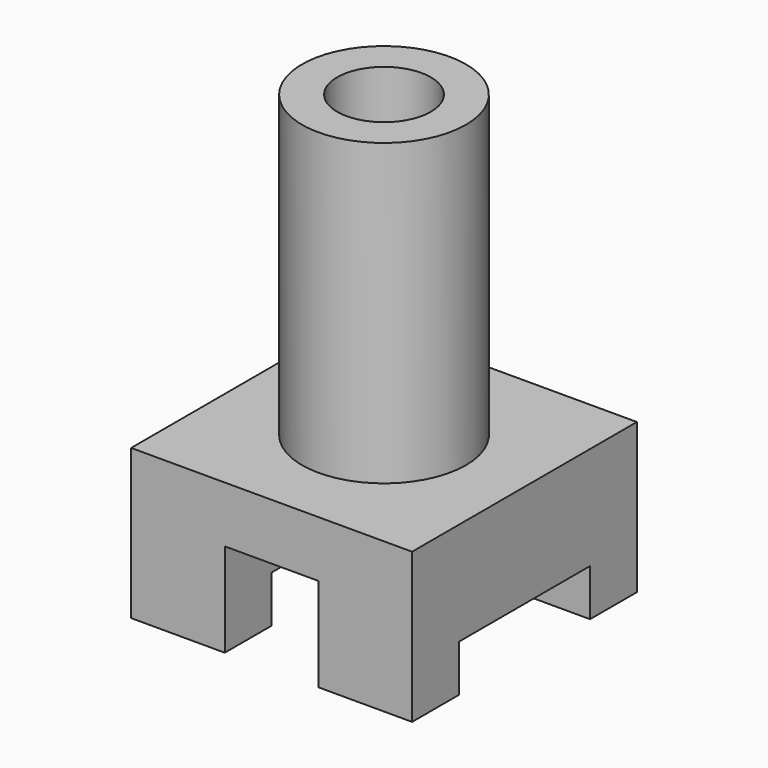
from build123d import *

# Parameters (mm, degrees)
F0_W     = 60
F0_H     = 60
F1_DEPTH = 32
F2_R     = 17.5
F3_DEPTH = 64
F4_W     = 20
F4_H     = 20
F5_DEPTH = 60
F6_W     = 35
F6_H     = 10
F7_DEPTH = 60
F8_R     = 10
F9_DEPTH = 96


with BuildPart() as f1:
    # F0 (on Top) → F1 (new body)
    with BuildSketch(Plane.XY):
        Rectangle(F0_W, F0_H)
    extrude(amount=F1_DEPTH)

    # F2 (on face) → F3 (join)
    with BuildSketch(Plane.XY.offset(32)):
        Circle(F2_R)
    extrude(amount=F3_DEPTH)

    # F4 (on face) → F5 (cut)
    with BuildSketch(Plane.XZ.offset(30)):
        with Locations((0, 10)):
            Rectangle(F4_W, F4_H)
    extrude(amount=-F5_DEPTH, mode=Mode.SUBTRACT)

    # F6 (on face) → F7 (cut)
    with BuildSketch(Plane.YZ.offset(30)):
        with Locations((0, 5)):
            Rectangle(F6_W, F6_H)
    extrude(amount=-F7_DEPTH, mode=Mode.SUBTRACT)

    # F8 (on face) → F9 (cut)
    with BuildSketch(Plane.XY.offset(96)):
        Circle(F8_R)
    extrude(amount=-F9_DEPTH, mode=Mode.SUBTRACT)


solid = f1.part
